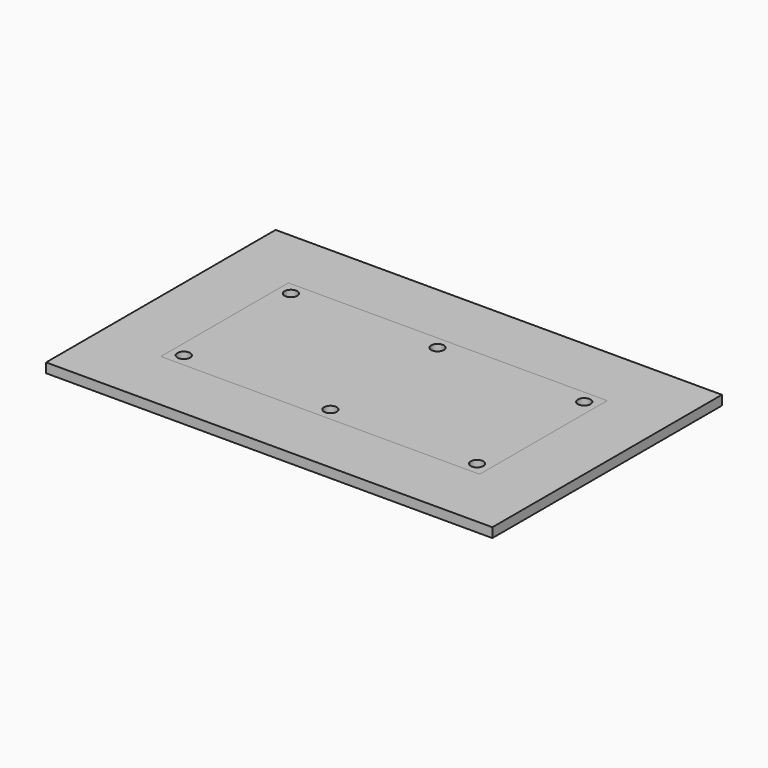
from build123d import *

# Parameters (mm, degrees)
F0_W     = 140
F0_H     = 90
F0_W_2   = 110
F0_H_2   = 60
F1_DEPTH = 3
F0_R     = 2
F2_DEPTH = 3
F3_DEPTH = 3
F4_START = -3
F4_DEPTH = 3


with BuildPart() as f1:
    # F0 (on Top) → F1 (new body)
    with BuildSketch(Plane.XY):
        with Locations((-50, -25)):
            Rectangle(F0_W, F0_H)
        with Locations((-50, -25)):
            Rectangle(F0_W_2, F0_H_2, mode=Mode.SUBTRACT)
        with Locations((-50, -25)):
            Rectangle(F0_W_2, F0_H_2)
        Polygon((-99.7749172176, 0), (0, 0), (0, -50), (-100, -50), (-100, -0.2250827824), (-100, 0), align=None, mode=Mode.SUBTRACT)
    extrude(amount=F1_DEPTH)


with BuildPart() as f2:
    # F0 (on Top) → F2 (new body)
    with BuildSketch(Plane.XY):
        with Locations((-50, -25)):
            Rectangle(F0_W_2, F0_H_2)
        Polygon((-99.7749172176, 0), (0, 0), (0, -50), (-100, -50), (-100, -0.2250827824), (-100, 0), align=None, mode=Mode.SUBTRACT)
        with BuildLine():
            Line((0, -50), (0, 0))
            Line((0, 0), (-99.7749172176, 0))
            ThreePointArc((-99.7749172176, 0), (-99.8890872965, -0.1109127035), (-100, -0.2250827824))
            Line((-100, -0.2250827824), (-100, -50))
            Line((-100, -50), (0, -50))
        make_face()
        Polygon((-99.5285949818, -44.9034824272), (-96.8146854172, -42.3958883197), (-93.2860904353, -43.4924058925), (-92.4714050182, -47.0965175728), (-95.1853145828, -49.6041116803), (-98.7139095647, -48.5075941075), align=None, mode=Mode.SUBTRACT)
        Polygon((-50, -42.3049582772), (-46.8, -44.1524791386), (-46.8, -47.8475208614), (-50, -49.6950417228), (-53.2, -47.8475208614), (-53.2, -44.1524791386), align=None, mode=Mode.SUBTRACT)
        Polygon((-6.7200378526, -48.500945304), (-7.5259010931, -44.8948507724), (-4.8058632405, -42.3939054684), (-1.2799621474, -43.499054696), (-0.4740989069, -47.1051492276), (-3.1941367595, -49.6060945316), align=None, mode=Mode.SUBTRACT)
        Polygon((-93.441469611, -1.334056343), (-92.4119598735, -4.8827804847), (-94.9704902625, -7.5487241417), (-98.558530389, -6.665943657), (-99.5880401265, -3.1172195153), (-97.0295097375, -0.4512758583), align=None, mode=Mode.SUBTRACT)
        with BuildLine():
            Line((-44.5916730868, -5), (-9.4083269132, -5))
            ThreePointArc((-9.4083269132, -5), (-7.8890872965, -7.8890872965), (-5, -9.4083269132))
            Line((-5, -9.4083269132), (-5, -40.5916730868))
            ThreePointArc((-5, -40.5916730868), (-7.8890872965, -42.1109127035), (-9.4083269132, -45))
            Line((-9.4083269132, -45), (-44.5916730868, -45))
            ThreePointArc((-44.5916730868, -45), (-50, -40.5), (-55.4083269132, -45))
            Line((-55.4083269132, -45), (-90.5916730868, -45))
            ThreePointArc((-90.5916730868, -45), (-92.1109127035, -42.1109127035), (-95, -40.5916730868))
            Line((-95, -40.5916730868), (-95, -9.4083269132))
            ThreePointArc((-95, -9.4083269132), (-92.1109127035, -7.8890872965), (-90.5916730868, -5))
            Line((-90.5916730868, -5), (-55.4083269132, -5))
            ThreePointArc((-55.4083269132, -5), (-50, -9.5), (-44.5916730868, -5))
        make_face(mode=Mode.SUBTRACT)
        Polygon((-46.3913899472, -3.2054769858), (-47.5076178594, -6.727886471), (-51.1162279122, -7.5224094852), (-53.6086100528, -4.7945230142), (-52.4923821406, -1.272113529), (-48.8837720878, -0.4775905148), align=None, mode=Mode.SUBTRACT)
        Polygon((-0.6758070303, -2.3865953906), (-0.9406541368, -6.0721332541), (-4.2648471065, -7.6855378635), (-7.3241929697, -5.6134046094), (-7.0593458632, -1.9278667459), (-3.7351528935, -0.3144621365), align=None, mode=Mode.SUBTRACT)
        Polygon((-93.2860904353, -43.4924058925), (-96.8146854172, -42.3958883197), (-99.5285949818, -44.9034824272), (-98.7139095647, -48.5075941075), (-95.1853145828, -49.6041116803), (-92.4714050182, -47.0965175728), align=None)
        with Locations((-96, -46)):
            Circle(F0_R, mode=Mode.SUBTRACT)
        Polygon((-94.9704902625, -7.5487241417), (-92.4119598735, -4.8827804847), (-93.441469611, -1.334056343), (-97.0295097375, -0.4512758583), (-99.5880401265, -3.1172195153), (-98.558530389, -6.665943657), align=None)
        with Locations((-96, -4)):
            Circle(F0_R, mode=Mode.SUBTRACT)
        Polygon((-46.8, -47.8475208614), (-46.8, -44.1524791386), (-50, -42.3049582772), (-53.2, -44.1524791386), (-53.2, -47.8475208614), (-50, -49.6950417228), align=None)
        with Locations((-50, -46)):
            Circle(F0_R, mode=Mode.SUBTRACT)
        Polygon((-51.1162279122, -7.5224094852), (-47.5076178594, -6.727886471), (-46.3913899472, -3.2054769858), (-48.8837720878, -0.4775905148), (-52.4923821406, -1.272113529), (-53.6086100528, -4.7945230142), align=None)
        with Locations((-50, -4)):
            Circle(F0_R, mode=Mode.SUBTRACT)
        Polygon((-4.2648471065, -7.6855378635), (-0.9406541368, -6.0721332541), (-0.6758070303, -2.3865953906), (-3.7351528935, -0.3144621365), (-7.0593458632, -1.9278667459), (-7.3241929697, -5.6134046094), align=None)
        with Locations((-4, -4)):
            Circle(F0_R, mode=Mode.SUBTRACT)
        Polygon((-4.8058632405, -42.3939054684), (-7.5259010931, -44.8948507724), (-6.7200378526, -48.500945304), (-3.1941367595, -49.6060945316), (-0.4740989069, -47.1051492276), (-1.2799621474, -43.499054696), align=None)
        with Locations((-4, -46)):
            Circle(F0_R, mode=Mode.SUBTRACT)
    extrude(amount=-F2_DEPTH)


with BuildPart() as f3:
    # F0 (on Top) → F3 (new body)
    with BuildSketch(Plane.XY):
        with BuildLine():
            Line((0, -50), (0, 0))
            Line((0, 0), (-99.7749172176, 0))
            ThreePointArc((-99.7749172176, 0), (-99.8890872965, -0.1109127035), (-100, -0.2250827824))
            Line((-100, -0.2250827824), (-100, -50))
            Line((-100, -50), (0, -50))
        make_face()
        Polygon((-99.5285949818, -44.9034824272), (-96.8146854172, -42.3958883197), (-93.2860904353, -43.4924058925), (-92.4714050182, -47.0965175728), (-95.1853145828, -49.6041116803), (-98.7139095647, -48.5075941075), align=None, mode=Mode.SUBTRACT)
        Polygon((-50, -42.3049582772), (-46.8, -44.1524791386), (-46.8, -47.8475208614), (-50, -49.6950417228), (-53.2, -47.8475208614), (-53.2, -44.1524791386), align=None, mode=Mode.SUBTRACT)
        Polygon((-6.7200378526, -48.500945304), (-7.5259010931, -44.8948507724), (-4.8058632405, -42.3939054684), (-1.2799621474, -43.499054696), (-0.4740989069, -47.1051492276), (-3.1941367595, -49.6060945316), align=None, mode=Mode.SUBTRACT)
        Polygon((-93.441469611, -1.334056343), (-92.4119598735, -4.8827804847), (-94.9704902625, -7.5487241417), (-98.558530389, -6.665943657), (-99.5880401265, -3.1172195153), (-97.0295097375, -0.4512758583), align=None, mode=Mode.SUBTRACT)
        with BuildLine():
            Line((-44.5916730868, -5), (-9.4083269132, -5))
            ThreePointArc((-9.4083269132, -5), (-7.8890872965, -7.8890872965), (-5, -9.4083269132))
            Line((-5, -9.4083269132), (-5, -40.5916730868))
            ThreePointArc((-5, -40.5916730868), (-7.8890872965, -42.1109127035), (-9.4083269132, -45))
            Line((-9.4083269132, -45), (-44.5916730868, -45))
            ThreePointArc((-44.5916730868, -45), (-50, -40.5), (-55.4083269132, -45))
            Line((-55.4083269132, -45), (-90.5916730868, -45))
            ThreePointArc((-90.5916730868, -45), (-92.1109127035, -42.1109127035), (-95, -40.5916730868))
            Line((-95, -40.5916730868), (-95, -9.4083269132))
            ThreePointArc((-95, -9.4083269132), (-92.1109127035, -7.8890872965), (-90.5916730868, -5))
            Line((-90.5916730868, -5), (-55.4083269132, -5))
            ThreePointArc((-55.4083269132, -5), (-50, -9.5), (-44.5916730868, -5))
        make_face(mode=Mode.SUBTRACT)
        Polygon((-46.3913899472, -3.2054769858), (-47.5076178594, -6.727886471), (-51.1162279122, -7.5224094852), (-53.6086100528, -4.7945230142), (-52.4923821406, -1.272113529), (-48.8837720878, -0.4775905148), align=None, mode=Mode.SUBTRACT)
        Polygon((-0.6758070303, -2.3865953906), (-0.9406541368, -6.0721332541), (-4.2648471065, -7.6855378635), (-7.3241929697, -5.6134046094), (-7.0593458632, -1.9278667459), (-3.7351528935, -0.3144621365), align=None, mode=Mode.SUBTRACT)
        with BuildLine():
            ThreePointArc((-5, -9.4083269132), (-7.8890872965, -7.8890872965), (-9.4083269132, -5))
            Line((-9.4083269132, -5), (-44.5916730868, -5))
            ThreePointArc((-44.5916730868, -5), (-50, -9.5), (-55.4083269132, -5))
            Line((-55.4083269132, -5), (-90.5916730868, -5))
            ThreePointArc((-90.5916730868, -5), (-92.1109127035, -7.8890872965), (-95, -9.4083269132))
            Line((-95, -9.4083269132), (-95, -40.5916730868))
            ThreePointArc((-95, -40.5916730868), (-92.1109127035, -42.1109127035), (-90.5916730868, -45))
            Line((-90.5916730868, -45), (-55.4083269132, -45))
            ThreePointArc((-55.4083269132, -45), (-50, -40.5), (-44.5916730868, -45))
            Line((-44.5916730868, -45), (-9.4083269132, -45))
            ThreePointArc((-9.4083269132, -45), (-7.8890872965, -42.1109127035), (-5, -40.5916730868))
            Line((-5, -40.5916730868), (-5, -9.4083269132))
        make_face()
        Polygon((-94.9704902625, -7.5487241417), (-92.4119598735, -4.8827804847), (-93.441469611, -1.334056343), (-97.0295097375, -0.4512758583), (-99.5880401265, -3.1172195153), (-98.558530389, -6.665943657), align=None)
        with Locations((-96, -4)):
            Circle(F0_R, mode=Mode.SUBTRACT)
        Polygon((-93.2860904353, -43.4924058925), (-96.8146854172, -42.3958883197), (-99.5285949818, -44.9034824272), (-98.7139095647, -48.5075941075), (-95.1853145828, -49.6041116803), (-92.4714050182, -47.0965175728), align=None)
        with Locations((-96, -46)):
            Circle(F0_R, mode=Mode.SUBTRACT)
        Polygon((-51.1162279122, -7.5224094852), (-47.5076178594, -6.727886471), (-46.3913899472, -3.2054769858), (-48.8837720878, -0.4775905148), (-52.4923821406, -1.272113529), (-53.6086100528, -4.7945230142), align=None)
        with Locations((-50, -4)):
            Circle(F0_R, mode=Mode.SUBTRACT)
        Polygon((-46.8, -47.8475208614), (-46.8, -44.1524791386), (-50, -42.3049582772), (-53.2, -44.1524791386), (-53.2, -47.8475208614), (-50, -49.6950417228), align=None)
        with Locations((-50, -46)):
            Circle(F0_R, mode=Mode.SUBTRACT)
        Polygon((-4.2648471065, -7.6855378635), (-0.9406541368, -6.0721332541), (-0.6758070303, -2.3865953906), (-3.7351528935, -0.3144621365), (-7.0593458632, -1.9278667459), (-7.3241929697, -5.6134046094), align=None)
        with Locations((-4, -4)):
            Circle(F0_R, mode=Mode.SUBTRACT)
        Polygon((-4.8058632405, -42.3939054684), (-7.5259010931, -44.8948507724), (-6.7200378526, -48.500945304), (-3.1941367595, -49.6060945316), (-0.4740989069, -47.1051492276), (-1.2799621474, -43.499054696), align=None)
        with Locations((-4, -46)):
            Circle(F0_R, mode=Mode.SUBTRACT)
    extrude(amount=F3_DEPTH)


with BuildPart() as f4:
    # F0 (on Top) → F4 (new body)
    with BuildSketch(Plane.XY.offset(F4_START)):
        with Locations((-50, -25)):
            Rectangle(F0_W_2, F0_H_2)
        Polygon((-99.7749172176, 0), (0, 0), (0, -50), (-100, -50), (-100, -0.2250827824), (-100, 0), align=None, mode=Mode.SUBTRACT)
        with BuildLine():
            Line((0, -50), (0, 0))
            Line((0, 0), (-99.7749172176, 0))
            ThreePointArc((-99.7749172176, 0), (-99.8890872965, -0.1109127035), (-100, -0.2250827824))
            Line((-100, -0.2250827824), (-100, -50))
            Line((-100, -50), (0, -50))
        make_face()
        Polygon((-99.5285949818, -44.9034824272), (-96.8146854172, -42.3958883197), (-93.2860904353, -43.4924058925), (-92.4714050182, -47.0965175728), (-95.1853145828, -49.6041116803), (-98.7139095647, -48.5075941075), align=None, mode=Mode.SUBTRACT)
        Polygon((-50, -42.3049582772), (-46.8, -44.1524791386), (-46.8, -47.8475208614), (-50, -49.6950417228), (-53.2, -47.8475208614), (-53.2, -44.1524791386), align=None, mode=Mode.SUBTRACT)
        Polygon((-6.7200378526, -48.500945304), (-7.5259010931, -44.8948507724), (-4.8058632405, -42.3939054684), (-1.2799621474, -43.499054696), (-0.4740989069, -47.1051492276), (-3.1941367595, -49.6060945316), align=None, mode=Mode.SUBTRACT)
        Polygon((-93.441469611, -1.334056343), (-92.4119598735, -4.8827804847), (-94.9704902625, -7.5487241417), (-98.558530389, -6.665943657), (-99.5880401265, -3.1172195153), (-97.0295097375, -0.4512758583), align=None, mode=Mode.SUBTRACT)
        with BuildLine():
            Line((-44.5916730868, -5), (-9.4083269132, -5))
            ThreePointArc((-9.4083269132, -5), (-7.8890872965, -7.8890872965), (-5, -9.4083269132))
            Line((-5, -9.4083269132), (-5, -40.5916730868))
            ThreePointArc((-5, -40.5916730868), (-7.8890872965, -42.1109127035), (-9.4083269132, -45))
            Line((-9.4083269132, -45), (-44.5916730868, -45))
            ThreePointArc((-44.5916730868, -45), (-50, -40.5), (-55.4083269132, -45))
            Line((-55.4083269132, -45), (-90.5916730868, -45))
            ThreePointArc((-90.5916730868, -45), (-92.1109127035, -42.1109127035), (-95, -40.5916730868))
            Line((-95, -40.5916730868), (-95, -9.4083269132))
            ThreePointArc((-95, -9.4083269132), (-92.1109127035, -7.8890872965), (-90.5916730868, -5))
            Line((-90.5916730868, -5), (-55.4083269132, -5))
            ThreePointArc((-55.4083269132, -5), (-50, -9.5), (-44.5916730868, -5))
        make_face(mode=Mode.SUBTRACT)
        Polygon((-46.3913899472, -3.2054769858), (-47.5076178594, -6.727886471), (-51.1162279122, -7.5224094852), (-53.6086100528, -4.7945230142), (-52.4923821406, -1.272113529), (-48.8837720878, -0.4775905148), align=None, mode=Mode.SUBTRACT)
        Polygon((-0.6758070303, -2.3865953906), (-0.9406541368, -6.0721332541), (-4.2648471065, -7.6855378635), (-7.3241929697, -5.6134046094), (-7.0593458632, -1.9278667459), (-3.7351528935, -0.3144621365), align=None, mode=Mode.SUBTRACT)
    extrude(amount=-F4_DEPTH)


solid = Compound([f1.part, f2.part, f3.part, f4.part])
